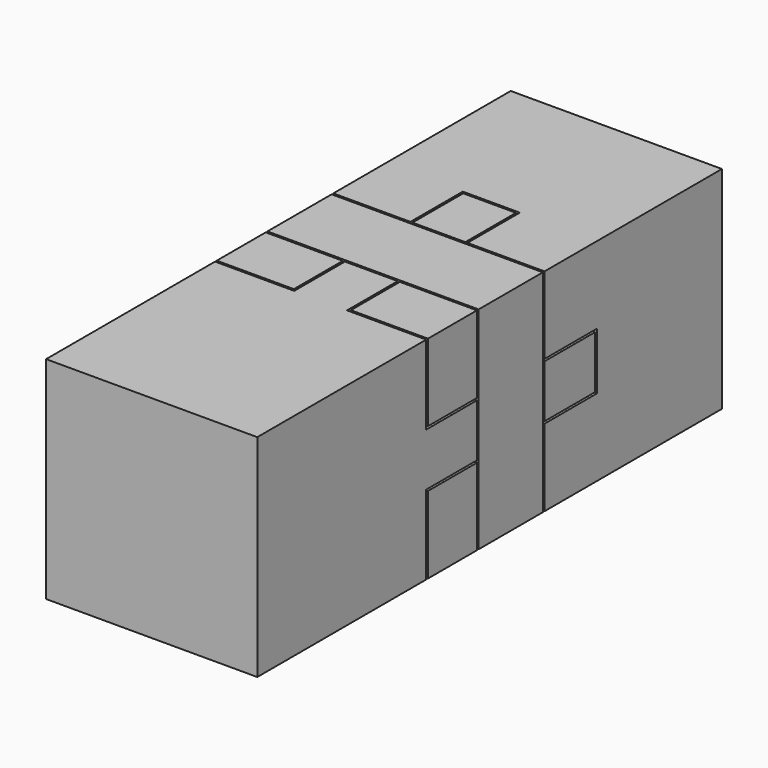
from build123d import *

# Parameters (mm, degrees)
F0_W       = 20
F0_H       = 20
F1_DEPTH   = 20
F2_W       = 5
F2_H       = 7.5
F2_W_2     = 7.5
F2_H_2     = 5
F3_DEPTH   = 20
F4_W       = 20
F4_H       = 20
F5_DEPTH   = 35
F6_OFFSET  = 0.2
F7_W       = 8
F7_H       = 8
F8_DEPTH   = 50
F9_W       = 3
F9_H       = 8
F10_DEPTH  = 50
F12_W      = 20
F12_H      = 20
F13_DEPTH  = 8
F14_OFFSET = 0.2


with BuildPart() as f1:
    # F0 (on Front) → F1 (new body)
    with BuildSketch(Plane.XZ):
        Rectangle(F0_W, F0_H)
    extrude(amount=F1_DEPTH)

    # F2 (on face) → F3 (join)
    with BuildSketch(Plane(origin=(0, 0, 0), x_dir=(-1, 0, 0), z_dir=(0, 1, 0))):
        with Locations((0, -6.25)):
            Rectangle(F2_W, F2_H)
        with Locations((-6.25, 0)):
            Rectangle(F2_W_2, F2_H_2)
        Rectangle(F2_W, F2_H_2)
        with Locations((6.25, 0)):
            Rectangle(F2_W_2, F2_H_2)
        with Locations((0, 6.25)):
            Rectangle(F2_W, F2_H)
    extrude(amount=F3_DEPTH)


with BuildPart() as f5:
    # F4 (on Front) → F5 (new body)
    with BuildSketch(Plane.XZ):
        Rectangle(F4_W, F4_H)
    extrude(amount=-F5_DEPTH)

    # F6: cut F1, made larger all round first
    f6_tool = offset(f1.part, amount=F6_OFFSET, kind=Kind.INTERSECTION, mode=Mode.PRIVATE)
    add(f6_tool, mode=Mode.SUBTRACT)


with BuildPart() as f8_tool:
    # F7 (on Right) → F8 (new body, symmetric)
    with BuildSketch(Plane.YZ):
        with Locations((10, 10)):
            Rectangle(F7_W, F7_H)
        with Locations((10, -10)):
            Rectangle(F7_W, F7_H)
    extrude(amount=F8_DEPTH, both=True)


with BuildPart() as f1_1:
    add(f1.part)

    # F8: cut by f8_tool
    add(f8_tool.part, mode=Mode.SUBTRACT)


with BuildPart() as f5_1:
    add(f5.part)

    # F8: cut by f8_tool
    add(f8_tool.part, mode=Mode.SUBTRACT)


with BuildPart() as f10_tool:
    # F9 (on Top) → F10 (new body, symmetric)
    with BuildSketch(Plane.XY):
        with Locations((-8.5, 10)):
            Rectangle(F9_W, F9_H)
        with Locations((8.5, 10)):
            Rectangle(F9_W, F9_H)
    extrude(amount=F10_DEPTH, both=True)


with BuildPart() as f1_2:
    add(f1_1.part)

    # F10: cut by f10_tool
    add(f10_tool.part, mode=Mode.SUBTRACT)


with BuildPart() as f5_2:
    add(f5_1.part)

    # F10: cut by f10_tool
    add(f10_tool.part, mode=Mode.SUBTRACT)


with BuildPart() as f13:
    # F12 (on plane+point) → F13 (new body, through all)
    with BuildSketch(Plane.XZ.offset(-6)):
        Rectangle(F12_W, F12_H)
    extrude(amount=-F13_DEPTH)

    # F14: cut F1, F5, each made larger all round first
    f14_tool = offset(f1_2.part, amount=F14_OFFSET, kind=Kind.INTERSECTION, mode=Mode.PRIVATE)
    add(f14_tool, mode=Mode.SUBTRACT)
    f14_tool1 = offset(f5_2.part, amount=F14_OFFSET, kind=Kind.INTERSECTION, mode=Mode.PRIVATE)
    add(f14_tool1, mode=Mode.SUBTRACT)


solid = Compound([f1_2.part, f5_2.part, f13.part])
